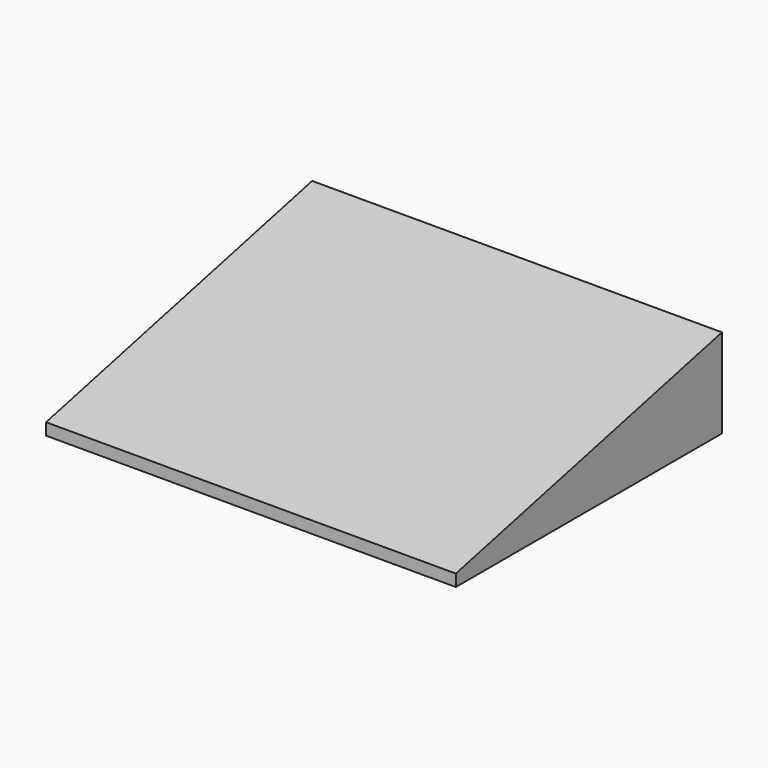
from build123d import *

# Parameters (mm, degrees)
F1_DEPTH = 25
F2_DEPTH = 44


with BuildPart() as f1:
    # F0 (on Right) → F1 (new body)
    with BuildSketch(Plane.YZ):
        Polygon((-22, 2), (-22, 0), (34, 0), (34, 15), align=None)
    extrude(amount=F1_DEPTH)

    # F1_face (on face) → F2 (join)
    with BuildSketch(Plane(origin=(25, 13.137255, 5.078431), x_dir=(0, 1, 0), z_dir=(1, 0, 0))):
        Polygon((-35.137255, -3.078431), (-35.137255, -5.078431), (20.862745, -5.078431), (20.862745, 9.921569), align=None)
    extrude(amount=F2_DEPTH)


solid = f1.part
